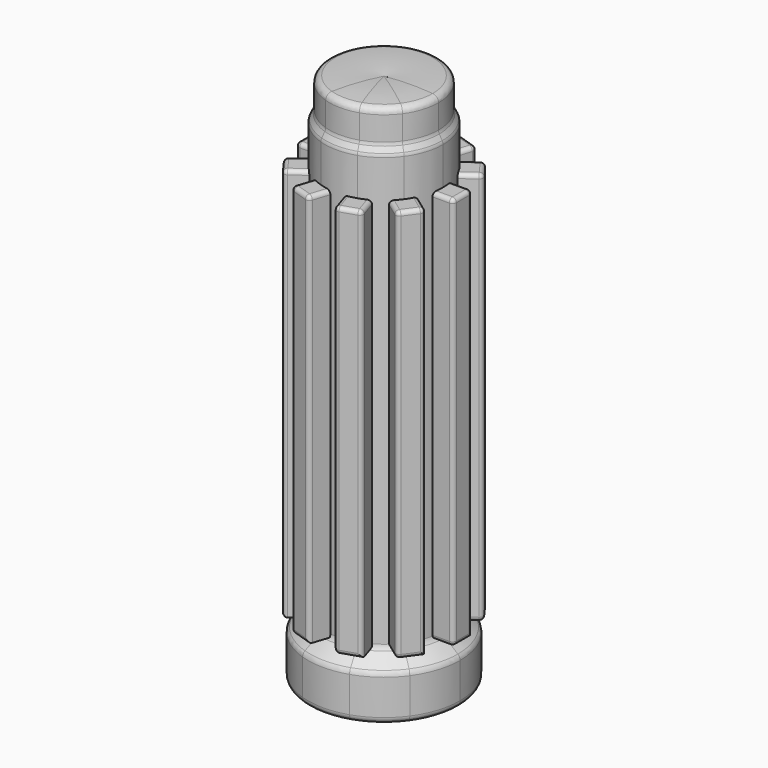
from build123d import *

# Parameters (mm, degrees)
F2_R     = 1.6
F4_W     = 6
F4_H     = 100
F5_DEPTH = 6.3030615433
F6_R     = 1
F7_COUNT = 10


with BuildPart() as f1:
    # F0 (on Front) → F1 (revolve)
    with BuildSketch(Plane.XZ):
        with BuildLine():
            ThreePointArc((13.8452994616, 135), (6.9226497308, 135.3532933492), (0, 135))
            Line((0, 135), (0, 125))
            Line((0, 125), (10.75, 125))
            Line((10.75, 125), (10.75, 0))
            Line((10.75, 0), (19.325, 0))
            Line((19.325, 0), (19.325, 11.3708940952))
            Line((19.325, 11.3708940952), (15, 15))
            Line((15, 15), (15, 125))
            Line((15, 125), (13.8452994616, 127))
            Line((13.8452994616, 127), (13.8452994616, 135))
        make_face()
    revolve(axis=Axis((0, 0, 62.5), (0, 0, 1)))

    # F2
    f2_edges = [f1.edges().sort_by_distance(p)[0] for p in [
        (-13.845299, 0, 135),
        (-13.845299, 0, 127),
        (-15, 0, 125),
        (-15, 0, 15),
        (-19.325, 0, 11.370894),
        (-19.325, 0, 0),
    ]]
    fillet(f2_edges, radius=F2_R)

    # F4 (on offset) → F5 (join, up to face)
    with BuildSketch(Plane.YZ.offset(20)):
        with Locations((0, 65)):
            Rectangle(F4_W, F4_H)
    extrude(amount=-F5_DEPTH)

    # F6
    f6_edges = [f1.edges().sort_by_distance(p)[0] for p in [
        (20, 3, 65),
        (17.348469, 3, 115),
        (17.348469, -3, 115),
        (20, -3, 65),
        (20, 0, 115),
        (20, 0, 15),
        (17.442657, -3, 15),
    ]]
    fillet(f6_edges, radius=F6_R)

    # F7: F1 ×10 about axis
    f7_axis = Axis((0, 0, 62.5), (0, 0, 1))


with BuildPart() as f1_1:
    add(f1.part)
    for i in range(1, F7_COUNT):
        add(f1.part.rotate(f7_axis, i * 360 / F7_COUNT))


solid = f1_1.part
